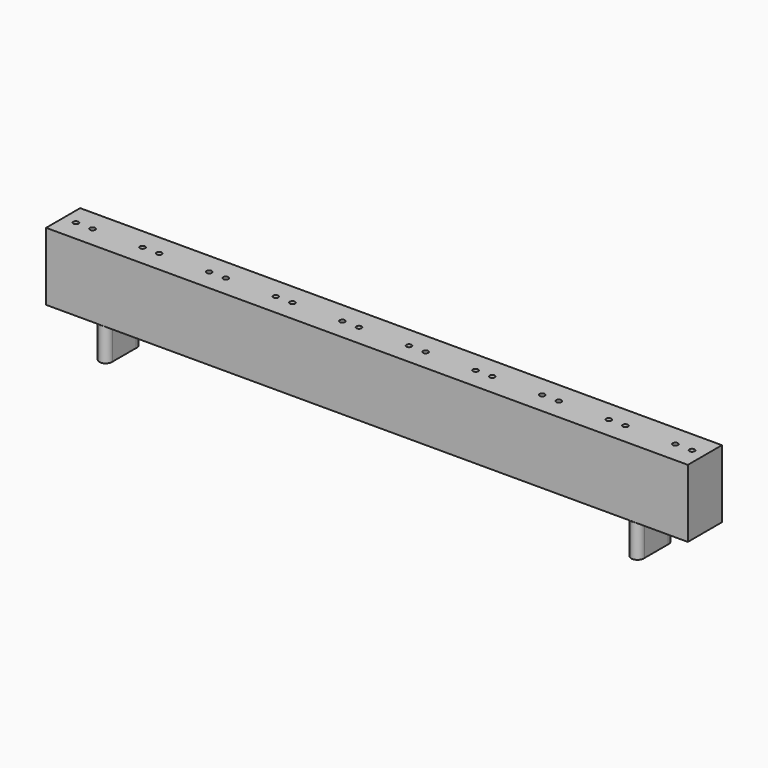
from build123d import *

# Parameters (mm, degrees)
SKETCH_W     = 97.89
SKETCH_H     = 6.5
PAD_DEPTH    = 10.35
SKETCH001_R  = 0.4
POCKET_DEPTH = 70
PAD001_DEPTH = 5


with BuildPart() as part:
    # Sketch → Pad (new body)
    with BuildSketch(Plane.XY):
        Rectangle(SKETCH_W, SKETCH_H)
    extrude(amount=PAD_DEPTH)

    # Sketch001 (on Face6 of Pad) → Pocket (cut)
    with BuildSketch(Plane.XY.offset(10.35)):
        with Locations((3.81, 0)):
            Circle(SKETCH001_R)
        with Locations((6.35, 0)):
            Circle(SKETCH001_R)
        with Locations((-16.51, 0)):
            Circle(SKETCH001_R)
        with Locations((-13.97, 0)):
            Circle(SKETCH001_R)
        with Locations((-34.29, 0)):
            Circle(SKETCH001_R)
        with Locations((-36.83, 0)):
            Circle(SKETCH001_R)
        with Locations((13.97, 0)):
            Circle(SKETCH001_R)
        with Locations((16.51, 0)):
            Circle(SKETCH001_R)
        with Locations((24.13, 0)):
            Circle(SKETCH001_R)
        with Locations((26.67, 0)):
            Circle(SKETCH001_R)
        with Locations((34.29, 0)):
            Circle(SKETCH001_R)
        with Locations((36.83, 0)):
            Circle(SKETCH001_R)
        with Locations((44.45, 0)):
            Circle(SKETCH001_R)
        with Locations((46.99, 0)):
            Circle(SKETCH001_R)
        with Locations((-46.99, 0)):
            Circle(SKETCH001_R)
        with Locations((-44.45, 0)):
            Circle(SKETCH001_R)
        with Locations((-26.67, 0)):
            Circle(SKETCH001_R)
        with Locations((-24.13, 0)):
            Circle(SKETCH001_R)
        with Locations((-6.35, 0)):
            Circle(SKETCH001_R)
        with Locations((-3.81, 0)):
            Circle(SKETCH001_R)
    extrude(amount=-POCKET_DEPTH, mode=Mode.SUBTRACT)

    # Sketch002 (on Face4 of Pocket) → Pad001 (join)
    with BuildSketch(Plane(origin=(0, 0, 0), x_dir=(1, 0, 0), z_dir=(0, 0, -1))):
        with BuildLine():
            Line((-39.61, 2.2225), (-39.61, -2.22))
            ThreePointArc((-41.51, -2.22), (-40.56, -3.318203), (-39.61, -2.22))
            Line((-41.51, -2.22), (-41.51, 2.22))
            ThreePointArc((-39.61, 2.2225), (-40.561445, 3.319446), (-41.51, 2.22))
        make_face()
        with BuildLine():
            Line((41.51, 2.22), (41.51, -2.22))
            ThreePointArc((39.61, -2.22), (40.56, -3.318203), (41.51, -2.22))
            Line((39.61, -2.22), (39.61, 2.22))
            ThreePointArc((41.51, 2.22), (40.56, 3.318203), (39.61, 2.22))
        make_face()
    extrude(amount=PAD001_DEPTH)


solid = part.part
